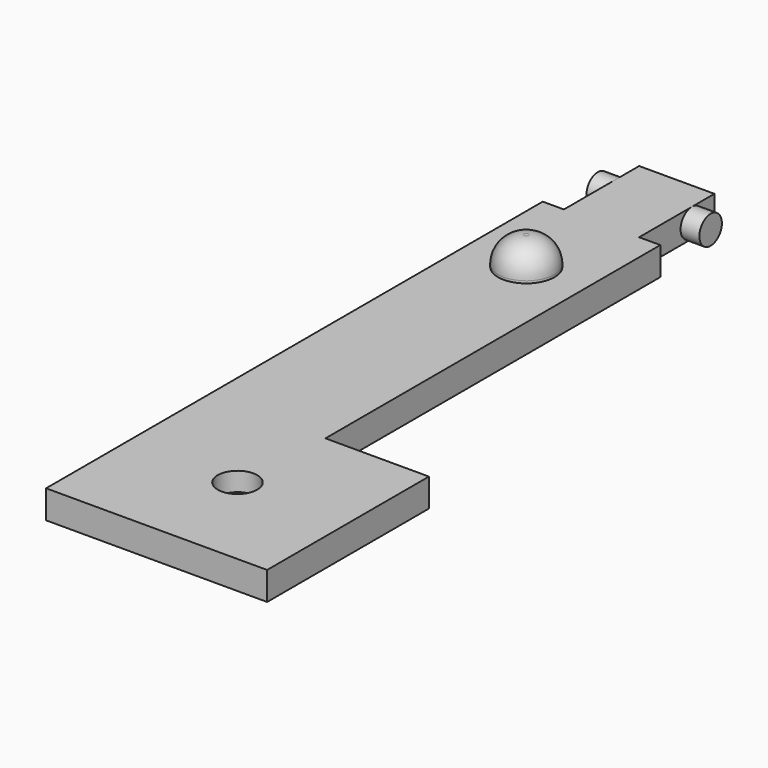
from build123d import *

# Parameters (mm, degrees)
PAD_DEPTH    = 3
SKETCH001_R  = 1.5
PAD001_DEPTH = 6
SKETCH002_R  = 2.1
POCKET_DEPTH = 2
SKETCH003_R  = 3
PAD002_DEPTH = 3
FILLET_R     = 2.75


with BuildPart() as part:
    # Sketch → Pad (new body)
    with BuildSketch(Plane.XY):
        Polygon((-6.25, 33), (-6.25, -33), (17.25, -33), (17.25, -11.5), (6.25, -11.5), (6.25, 33), (4, 33), (4, 43), (-4, 43), (-4, 33), align=None)
    extrude(amount=PAD_DEPTH)

    # Sketch001 → Pad001 (join, symmetric)
    with BuildSketch(Plane.YZ):
        with Locations((40, 1.5)):
            Circle(SKETCH001_R)
    extrude(amount=PAD001_DEPTH, both=True)

    # Sketch002 (on Face5 of Pad001) → Pocket (cut)
    with BuildSketch(Plane.XY.offset(3)):
        with Locations((5.5, -22.25)):
            Circle(SKETCH002_R)
    extrude(amount=-POCKET_DEPTH, mode=Mode.SUBTRACT)

    # Sketch003 (on Face5 of Pocket) → Pad002 (join)
    with BuildSketch(Plane.XY.offset(3)):
        with Locations((0, 23)):
            Circle(SKETCH003_R)
    extrude(amount=PAD002_DEPTH)

    # Fillet
    fillet_edges = [part.edges().sort_by_distance(p)[0] for p in [
        (-3, 23, 6),
    ]]
    fillet(fillet_edges, radius=FILLET_R)


solid = part.part
